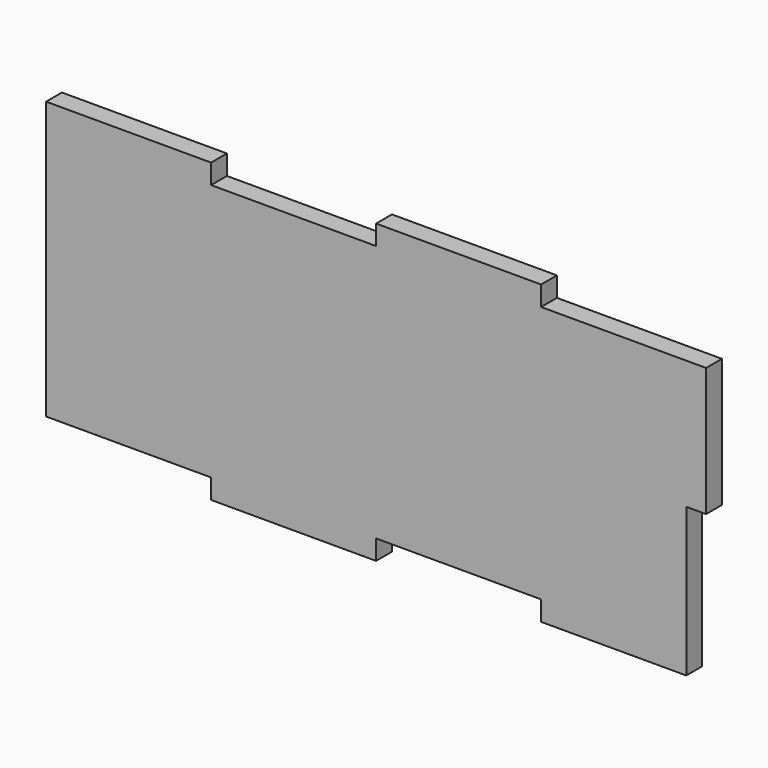
from build123d import *

# Parameters (mm, degrees)
RECTANGLE134_W                               = 40
RECTANGLE134_H                               = 3
EXTRUDE175_DEPTH                             = 3
RECTANGLE135_W                               = 40
RECTANGLE135_H                               = 3
EXTRUDE176_DEPTH                             = 3
RECTANGLE133_W                               = 40
RECTANGLE133_H                               = 3
EXTRUDE174_DEPTH                             = 3
RECTANGLE130_AS_DRAWN_W                      = 25
RECTANGLE130_AS_DRAWN_H                      = 3
EXTRUDE152_DEPTH                             = 3
EXTRUDE152_ONTO_RECTANGLE130_ROLL_ANGLE      = -90
EXTRUDE152_ONTO_RECTANGLE130_PLACEMENT_ANGLE = 180
RECTANGLE128_AS_DRAWN_W                      = 25
RECTANGLE128_AS_DRAWN_H                      = 3
EXTRUDE153_DEPTH                             = 3
EXTRUDE153_ONTO_RECTANGLE128_ROLL_ANGLE      = -90
EXTRUDE153_ONTO_RECTANGLE128_PLACEMENT_ANGLE = 180
RECTANGLE132_AS_DRAWN_W                      = 3
RECTANGLE132_AS_DRAWN_H                      = 19.5
EXTRUDE166_DEPTH                             = 3
EXTRUDE166_ONTO_RECTANGLE132_ROLL_ANGLE      = -90
EXTRUDE166_ONTO_RECTANGLE132_PLACEMENT_ANGLE = 180
RECTANGLE127_AS_DRAWN_W                      = 25
RECTANGLE127_AS_DRAWN_H                      = 3
EXTRUDE147_DEPTH                             = 3
EXTRUDE147_ONTO_RECTANGLE127_ROLL_ANGLE      = -90
EXTRUDE147_ONTO_RECTANGLE127_PLACEMENT_ANGLE = 180
RECTANGLE129_AS_DRAWN_W                      = 25
RECTANGLE129_AS_DRAWN_H                      = 3
EXTRUDE149_DEPTH                             = 3
EXTRUDE149_ONTO_RECTANGLE129_ROLL_ANGLE      = -90
EXTRUDE149_ONTO_RECTANGLE129_PLACEMENT_ANGLE = 180
BOX042_W                                     = 100
BOX042_H                                     = 3
BOX042_DEPTH                                 = 45


with BuildPart() as extrude175:
    # Rectangle134 → Extrude175 (new body)
    with BuildSketch(Plane(origin=(114, 38, -112), x_dir=(0, 1, 0), z_dir=(1, 0, 0))):
        with Locations((20, -1.5)):
            Rectangle(RECTANGLE134_W, RECTANGLE134_H)
    extrude(amount=EXTRUDE175_DEPTH)


with BuildPart() as extrude176:
    # Rectangle135 → Extrude176 (new body)
    with BuildSketch(Plane(origin=(114, -19.5, -112), x_dir=(0, 1, 0), z_dir=(1, 0, 0))):
        with Locations((20, -1.5)):
            Rectangle(RECTANGLE135_W, RECTANGLE135_H)
    extrude(amount=EXTRUDE176_DEPTH)


with BuildPart() as fusion064043:
    # Rectangle133 → Extrude174 (new body)
    with BuildSketch(Plane(origin=(114, -77, -112), x_dir=(0, 1, 0), z_dir=(1, 0, 0))):
        with Locations((20, -1.5)):
            Rectangle(RECTANGLE133_W, RECTANGLE133_H)
    extrude(amount=EXTRUDE174_DEPTH)

    # Fusion064043: union Extrude175, Extrude176
    add(extrude175.part)
    add(extrude176.part)


with BuildPart() as fusion064043_1:
    # Fusion064043 placement: moved
    add(fusion064043.part.moved(Location((-3, 0, 0))))


with BuildPart() as extrude152:
    # Rectangle130 as drawn → Extrude152 (new)
    with BuildSketch(Plane.XY):
        with Locations((12.5, 1.5)):
            Rectangle(RECTANGLE130_AS_DRAWN_W, RECTANGLE130_AS_DRAWN_H)
    extrude(amount=-EXTRUDE152_DEPTH)


with BuildPart() as extrude152_1:
    # Extrude152 onto Rectangle130 roll: moved
    add(extrude152.part.rotate(Axis((0, 0, 0), (1, 0, 0)), EXTRUDE152_ONTO_RECTANGLE130_ROLL_ANGLE))


with BuildPart() as extrude152_2:
    # Extrude152 onto Rectangle130 placement: moved
    add(extrude152_1.part.moved(Location((39, -77, -70))).rotate(Axis((39, -77, -70), (0, 0, 1)), EXTRUDE152_ONTO_RECTANGLE130_PLACEMENT_ANGLE))


with BuildPart() as extrude152_3:
    # Extrude152 placement: moved
    add(extrude152_2.part.moved(Location((0, 0, -42))))


with BuildPart() as extrude153:
    # Rectangle128 as drawn → Extrude153 (new)
    with BuildSketch(Plane.XY):
        with Locations((12.5, 1.5)):
            Rectangle(RECTANGLE128_AS_DRAWN_W, RECTANGLE128_AS_DRAWN_H)
    extrude(amount=-EXTRUDE153_DEPTH)


with BuildPart() as extrude153_1:
    # Extrude153 onto Rectangle128 roll: moved
    add(extrude153.part.rotate(Axis((0, 0, 0), (1, 0, 0)), EXTRUDE153_ONTO_RECTANGLE128_ROLL_ANGLE))


with BuildPart() as extrude153_2:
    # Extrude153 onto Rectangle128 placement: moved
    add(extrude153_1.part.moved(Location((89, -77, -70))).rotate(Axis((89, -77, -70), (0, 0, 1)), EXTRUDE153_ONTO_RECTANGLE128_PLACEMENT_ANGLE))


with BuildPart() as extrude153_3:
    # Extrude153 placement: moved
    add(extrude153_2.part.moved(Location((0, 0, -42))))


with BuildPart() as extrude166:
    # Rectangle132 as drawn → Extrude166 (new)
    with BuildSketch(Plane.XY):
        with Locations((1.5, 9.75)):
            Rectangle(RECTANGLE132_AS_DRAWN_W, RECTANGLE132_AS_DRAWN_H)
    extrude(amount=-EXTRUDE166_DEPTH)


with BuildPart() as extrude166_1:
    # Extrude166 onto Rectangle132 roll: moved
    add(extrude166.part.rotate(Axis((0, 0, 0), (1, 0, 0)), EXTRUDE166_ONTO_RECTANGLE132_ROLL_ANGLE))


with BuildPart() as extrude166_2:
    # Extrude166 onto Rectangle132 placement: moved
    add(extrude166_1.part.moved(Location((114, -77, -92.5))).rotate(Axis((114, -77, -92.5), (0, 0, 1)), EXTRUDE166_ONTO_RECTANGLE132_PLACEMENT_ANGLE))


with BuildPart() as extrude147:
    # Rectangle127 as drawn → Extrude147 (new)
    with BuildSketch(Plane.XY):
        with Locations((12.5, 1.5)):
            Rectangle(RECTANGLE127_AS_DRAWN_W, RECTANGLE127_AS_DRAWN_H)
    extrude(amount=-EXTRUDE147_DEPTH)


with BuildPart() as extrude147_1:
    # Extrude147 onto Rectangle127 roll: moved
    add(extrude147.part.rotate(Axis((0, 0, 0), (1, 0, 0)), EXTRUDE147_ONTO_RECTANGLE127_ROLL_ANGLE))


with BuildPart() as extrude147_2:
    # Extrude147 onto Rectangle127 placement: moved
    add(extrude147_1.part.moved(Location((114, -77, -70))).rotate(Axis((114, -77, -70), (0, 0, 1)), EXTRUDE147_ONTO_RECTANGLE127_PLACEMENT_ANGLE))


with BuildPart() as fusion064024:
    # Rectangle129 as drawn → Extrude149 (new)
    with BuildSketch(Plane.XY):
        with Locations((12.5, 1.5)):
            Rectangle(RECTANGLE129_AS_DRAWN_W, RECTANGLE129_AS_DRAWN_H)
    extrude(amount=-EXTRUDE149_DEPTH)


with BuildPart() as fusion064024_1:
    # Extrude149 onto Rectangle129 roll: moved
    add(fusion064024.part.rotate(Axis((0, 0, 0), (1, 0, 0)), EXTRUDE149_ONTO_RECTANGLE129_ROLL_ANGLE))


with BuildPart() as fusion064024_2:
    # Extrude149 onto Rectangle129 placement: moved
    add(fusion064024_1.part.moved(Location((64, -77, -70))).rotate(Axis((64, -77, -70), (0, 0, 1)), EXTRUDE149_ONTO_RECTANGLE129_PLACEMENT_ANGLE))

    # Fusion064024: union Extrude152, Extrude153, Extrude166, Extrude147
    add(extrude152_3.part)
    add(extrude153_3.part)
    add(extrude166_2.part)
    add(extrude147_2.part)


with BuildPart() as cut035028:
    # Box042 → Box042 (new body)
    with BuildSketch(Plane(origin=(14, -77, -115), x_dir=(1, 0, 0), z_dir=(0, 0, 1))):
        with Locations((50, 1.5)):
            Rectangle(BOX042_W, BOX042_H)
    extrude(amount=BOX042_DEPTH)

    # Cut035013: cut Fusion064024
    add(fusion064024_2.part, mode=Mode.SUBTRACT)

    # Cut035028: cut Fusion064043
    add(fusion064043_1.part, mode=Mode.SUBTRACT)


solid = cut035028.part
